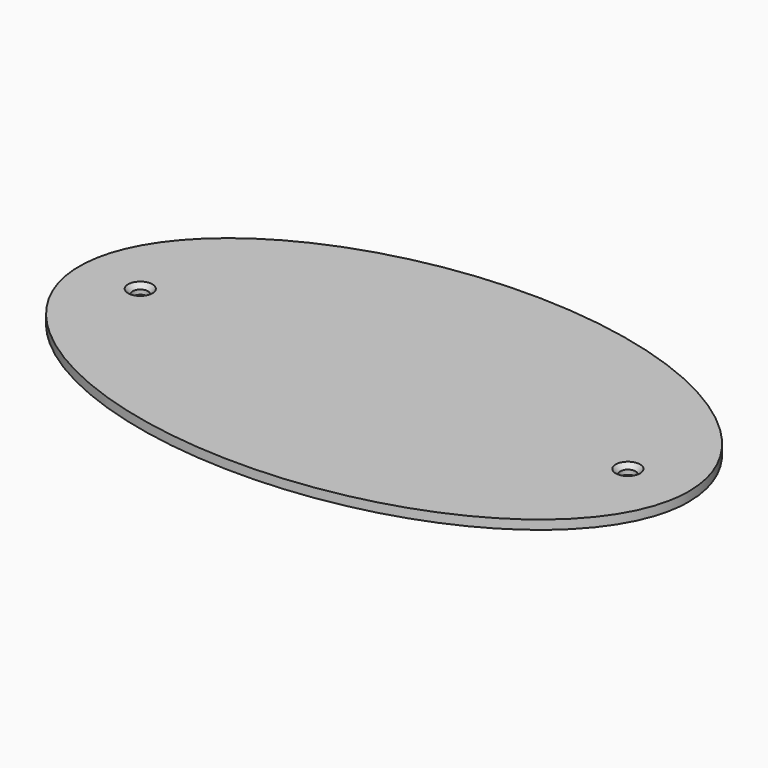
from build123d import *

# Parameters (mm, degrees)
F1_DEPTH       = 3
F3_D           = 5
F3_CSINK_D     = 8
F3_CSINK_ANGLE = 90


with BuildPart() as f1:
    # F0 (on Top) → F1 (new body)
    with BuildSketch(Plane.XY):
        with BuildLine():
            add(Edge.make_bspline(
                [(100, 0), (100, 103.923048), (-50, 51.961524), (-200, 0), (-50, -51.961524), (100, -103.923048), (100, 0)],
                knots=[0, 0, 0, 2.094395, 2.094395, 4.18879, 4.18879, 6.283185, 6.283185, 6.283185], degree=2, weights=[1, 0.5, 1, 0.5, 1, 0.5, 1]))
        make_face()
    extrude(amount=-F1_DEPTH)

    # F3 (through all)
    with Locations(Plane.XY):
        with Locations((-80, 0), (80, 0)):
            CounterSinkHole(F3_D / 2, F3_CSINK_D / 2, counter_sink_angle=F3_CSINK_ANGLE)


solid = f1.part
